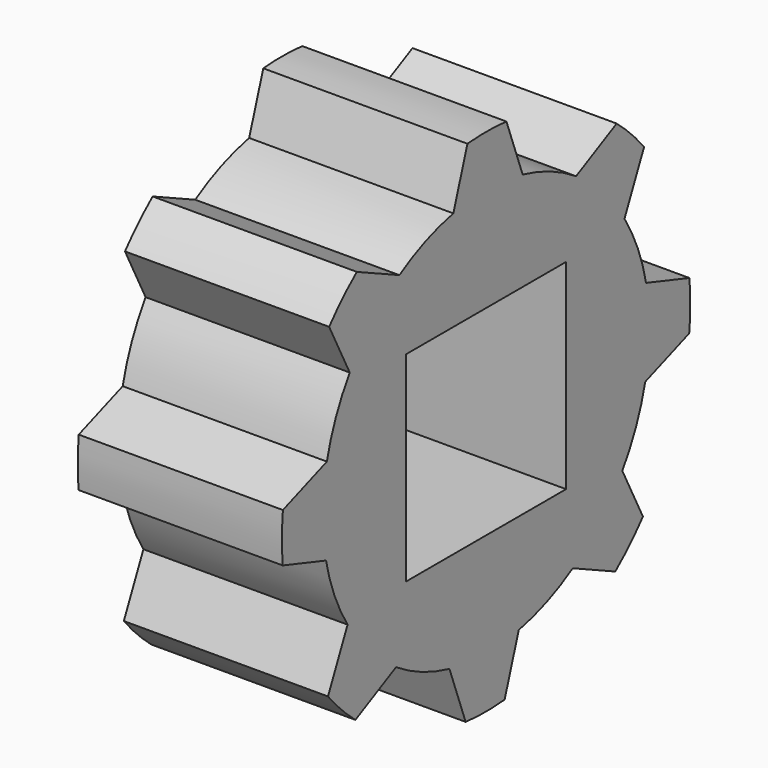
from build123d import *

# Parameters (mm, degrees)
F1_DEPTH = 25.4
F2_W     = 24.892
F2_H     = 24.892
F3_DEPTH = 25.4


with BuildPart() as f1:
    # F0 (on Right) → F1 (new body)
    with BuildSketch(Plane.YZ):
        with BuildLine():
            ThreePointArc((25.4, 0), (25.270957, 2.55709), (24.885141, 5.088198))
            ThreePointArc((24.885141, 5.088198), (23.583764, 9.432182), (21.53068, 13.475526))
            ThreePointArc((21.53068, 13.475526), (18.179017, 17.739316), (13.998553, 21.194351))
            ThreePointArc((13.998553, 21.194351), (10.00668, 23.3458), (5.695854, 24.753126))
            ThreePointArc((5.695854, 24.753126), (0.310916, 25.398097), (-5.088198, 24.885141))
            ThreePointArc((-5.088198, 24.885141), (-9.432182, 23.583764), (-13.475526, 21.53068))
            ThreePointArc((-13.475526, 21.53068), (-17.739316, 18.179017), (-21.194351, 13.998553))
            ThreePointArc((-21.194351, 13.998553), (-23.3458, 10.00668), (-24.753126, 5.695854))
            ThreePointArc((-24.753126, 5.695854), (-25.398097, 0.310916), (-24.885141, -5.088198))
            ThreePointArc((-24.885141, -5.088198), (-23.583764, -9.432182), (-21.53068, -13.475526))
            ThreePointArc((-21.53068, -13.475526), (-18.179017, -17.739316), (-13.998553, -21.194351))
            ThreePointArc((-13.998553, -21.194351), (-10.00668, -23.3458), (-5.695854, -24.753126))
            ThreePointArc((-5.695854, -24.753126), (-0.310916, -25.398097), (5.088198, -24.885141))
            ThreePointArc((5.088198, -24.885141), (9.432182, -23.583764), (13.475526, -21.53068))
            ThreePointArc((13.475526, -21.53068), (17.739316, -18.179017), (21.194351, -13.998553))
            ThreePointArc((21.194351, -13.998553), (23.3458, -10.00668), (24.753126, -5.695854))
            ThreePointArc((24.753126, -5.695854), (25.237763, -2.866235), (25.4, 0))
        make_face()
        with BuildLine():
            Line((-24.753126, 5.695854), (-31.5914, 3.169537))
            ThreePointArc((-31.5914, 3.169537), (-31.749691, 0.14009), (-31.618139, -2.890636))
            Line((-31.618139, -2.890636), (-24.885141, -5.088198))
            ThreePointArc((-24.885141, -5.088198), (-25.398097, 0.310916), (-24.753126, 5.695854))
        make_face()
        with BuildLine():
            Line((-13.475526, 21.53068), (-20.097292, 24.579694))
            ThreePointArc((-20.097292, 24.579694), (-22.351363, 22.54948), (-24.401389, 20.313412))
            Line((-24.401389, 20.313412), (-21.194351, 13.998553))
            ThreePointArc((-21.194351, 13.998553), (-17.739316, 18.179017), (-13.475526, 21.53068))
        make_face()
        with BuildLine():
            Line((5.695854, 24.753126), (3.169537, 31.5914))
            ThreePointArc((3.169537, 31.5914), (0.14009, 31.749691), (-2.890636, 31.618139))
            Line((-2.890636, 31.618139), (-5.088198, 24.885141))
            ThreePointArc((-5.088198, 24.885141), (0.310916, 25.398097), (5.695854, 24.753126))
        make_face()
        with BuildLine():
            Line((21.53068, 13.475526), (24.579694, 20.097292))
            ThreePointArc((24.579694, 20.097292), (22.54948, 22.351363), (20.313412, 24.401389))
            Line((20.313412, 24.401389), (13.998553, 21.194351))
            ThreePointArc((13.998553, 21.194351), (18.179017, 17.739316), (21.53068, 13.475526))
        make_face()
        with BuildLine():
            ThreePointArc((31.5914, -3.169537), (31.710325, -1.586751), (31.75, 0))
            ThreePointArc((31.75, 0), (31.717018, 1.446821), (31.618139, 2.890636))
            Line((31.618139, 2.890636), (24.885141, 5.088198))
            ThreePointArc((24.885141, 5.088198), (25.270957, 2.55709), (25.4, 0))
            ThreePointArc((25.4, 0), (25.237763, -2.866235), (24.753126, -5.695854))
            Line((24.753126, -5.695854), (31.5914, -3.169537))
        make_face()
        with BuildLine():
            ThreePointArc((20.097292, -24.579694), (22.351363, -22.54948), (24.401389, -20.313412))
            Line((24.401389, -20.313412), (21.194351, -13.998553))
            ThreePointArc((21.194351, -13.998553), (17.739316, -18.179017), (13.475526, -21.53068))
            Line((13.475526, -21.53068), (20.097292, -24.579694))
        make_face()
        with BuildLine():
            ThreePointArc((-3.169537, -31.5914), (-0.14009, -31.749691), (2.890636, -31.618139))
            Line((2.890636, -31.618139), (5.088198, -24.885141))
            ThreePointArc((5.088198, -24.885141), (-0.310916, -25.398097), (-5.695854, -24.753126))
            Line((-5.695854, -24.753126), (-3.169537, -31.5914))
        make_face()
        with BuildLine():
            ThreePointArc((-24.579694, -20.097292), (-22.54948, -22.351363), (-20.313412, -24.401389))
            Line((-20.313412, -24.401389), (-13.998553, -21.194351))
            ThreePointArc((-13.998553, -21.194351), (-18.179017, -17.739316), (-21.53068, -13.475526))
            Line((-21.53068, -13.475526), (-24.579694, -20.097292))
        make_face()
    extrude(amount=F1_DEPTH)

    # F2 (on face) → F3 (cut)
    with BuildSketch(Plane.YZ.offset(25.4)):
        Rectangle(F2_W, F2_H)
    extrude(amount=-F3_DEPTH, mode=Mode.SUBTRACT)


solid = f1.part
